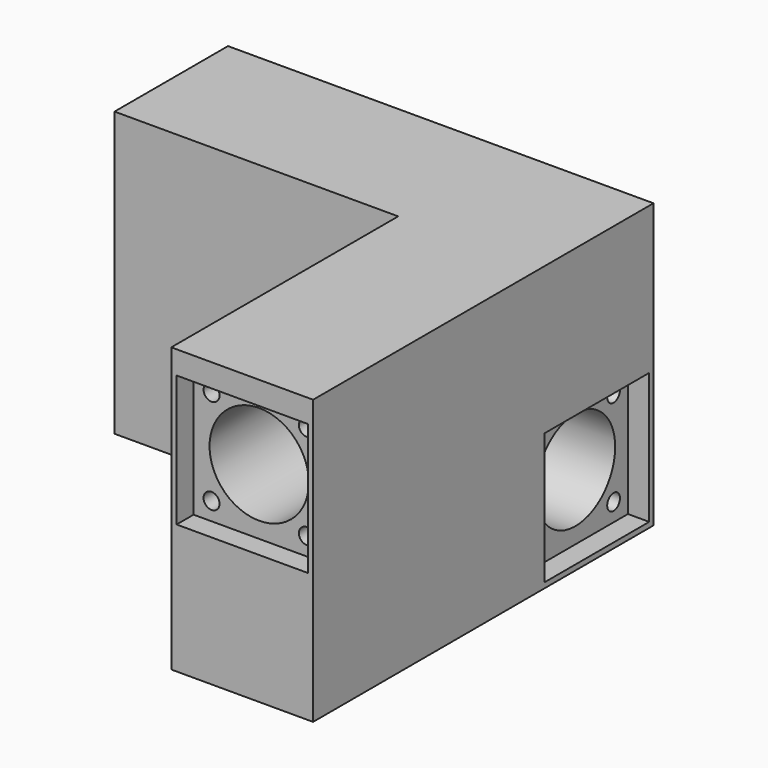
from build123d import *

# Parameters (mm, degrees)
F0_W      = 120
F0_H      = 120
F1_DEPTH  = 80
F2_W      = 37
F2_H      = 37
F2_R      = 2.25
F2_R_2    = 14
F3_DEPTH  = 6
F4_DEPTH  = 120.001
F5_DEPTH  = 25
F6_W      = 37
F6_H      = 37
F6_R      = 2.25
F6_R_2    = 14
F7_DEPTH  = 6
F8_DEPTH  = 120.001
F9_DEPTH  = 25
F10_W     = 80
F10_H     = 80
F11_DEPTH = 80.001


with BuildPart() as f1:
    # F0 (on Top) → F1 (new body)
    with BuildSketch(Plane.XY):
        Rectangle(F0_W, F0_H)
    extrude(amount=F1_DEPTH)

    # F2 (on face) → F3 (cut)
    with BuildSketch(Plane.XZ.offset(60)):
        with Locations((40, 55)):
            Rectangle(F2_W, F2_H)
        with Locations((26.564971, 41.564971)):
            Circle(F2_R, mode=Mode.SUBTRACT)
        with Locations((53.435029, 41.564971)):
            Circle(F2_R, mode=Mode.SUBTRACT)
        with Locations((26.564971, 68.435029)):
            Circle(F2_R, mode=Mode.SUBTRACT)
        with Locations((40, 55)):
            Circle(F2_R_2, mode=Mode.SUBTRACT)
        with Locations((53.435029, 68.435029)):
            Circle(F2_R, mode=Mode.SUBTRACT)
        with Locations((26.564971, 68.435029)):
            Circle(F2_R)
        with Locations((40, 55)):
            Circle(F2_R_2)
        with Locations((53.435029, 68.435029)):
            Circle(F2_R)
        with Locations((53.435029, 41.564971)):
            Circle(F2_R)
        with Locations((26.564971, 41.564971)):
            Circle(F2_R)
    extrude(amount=-F3_DEPTH, mode=Mode.SUBTRACT)

    # F2 (on face) → F4 (cut, through all)
    with BuildSketch(Plane.XZ.offset(60)):
        with Locations((40, 55)):
            Circle(F2_R_2)
    extrude(amount=-F4_DEPTH, mode=Mode.SUBTRACT)

    # F2 (on face) → F5 (cut)
    with BuildSketch(Plane.XZ.offset(60)):
        with Locations((26.564971, 68.435029)):
            Circle(F2_R)
        with Locations((53.435029, 68.435029)):
            Circle(F2_R)
        with Locations((53.435029, 41.564971)):
            Circle(F2_R)
        with Locations((26.564971, 41.564971)):
            Circle(F2_R)
    extrude(amount=-F5_DEPTH, mode=Mode.SUBTRACT)

    # F6 (on face) → F7 (cut)
    with BuildSketch(Plane.YZ.offset(60)):
        with Locations((40, 20)):
            Rectangle(F6_W, F6_H)
        with Locations((26.564971, 6.564971)):
            Circle(F6_R, mode=Mode.SUBTRACT)
        with Locations((53.435029, 6.564971)):
            Circle(F6_R, mode=Mode.SUBTRACT)
        with Locations((26.564971, 33.435029)):
            Circle(F6_R, mode=Mode.SUBTRACT)
        with Locations((40, 20)):
            Circle(F6_R_2, mode=Mode.SUBTRACT)
        with Locations((53.435029, 33.435029)):
            Circle(F6_R, mode=Mode.SUBTRACT)
        with Locations((40, 20)):
            Circle(F6_R_2)
        with Locations((26.564971, 33.435029)):
            Circle(F6_R)
        with Locations((53.435029, 33.435029)):
            Circle(F6_R)
        with Locations((53.435029, 6.564971)):
            Circle(F6_R)
        with Locations((26.564971, 6.564971)):
            Circle(F6_R)
    extrude(amount=-F7_DEPTH, mode=Mode.SUBTRACT)

    # F6 (on face) → F8 (cut, through all)
    with BuildSketch(Plane.YZ.offset(60)):
        with Locations((40, 20)):
            Circle(F6_R_2)
    extrude(amount=-F8_DEPTH, mode=Mode.SUBTRACT)

    # F6 (on face) → F9 (cut)
    with BuildSketch(Plane.YZ.offset(60)):
        with Locations((26.564971, 33.435029)):
            Circle(F6_R)
        with Locations((53.435029, 33.435029)):
            Circle(F6_R)
        with Locations((53.435029, 6.564971)):
            Circle(F6_R)
        with Locations((26.564971, 6.564971)):
            Circle(F6_R)
    extrude(amount=-F9_DEPTH, mode=Mode.SUBTRACT)

    # F10 (on face) → F11 (cut, through all)
    with BuildSketch(Plane.XY.offset(80)):
        with Locations((-20, -20)):
            Rectangle(F10_W, F10_H)
    extrude(amount=-F11_DEPTH, mode=Mode.SUBTRACT)


solid = f1.part
